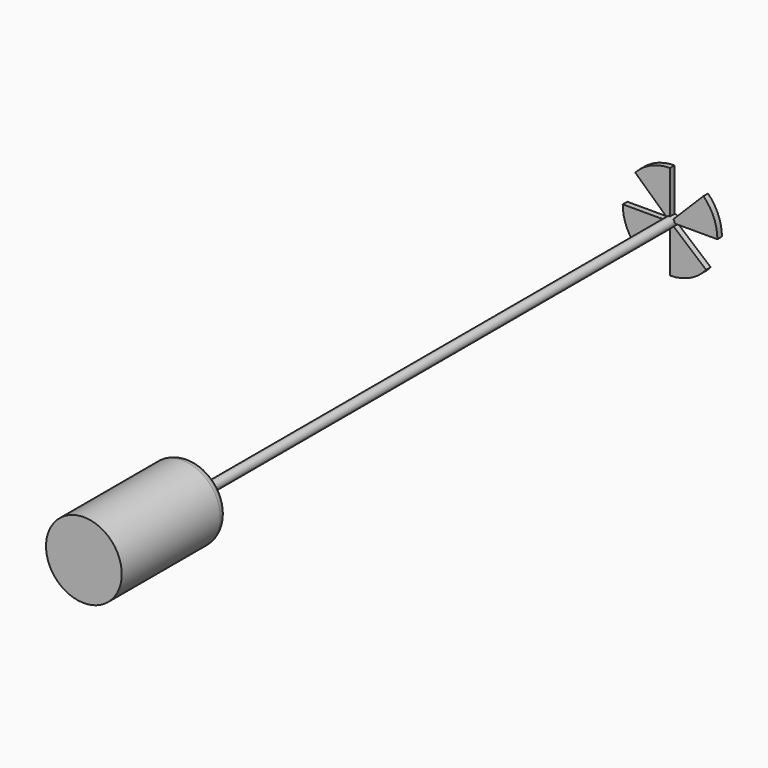
from build123d import *

# Parameters (mm, degrees)
F0_R     = 20
F1_DEPTH = 70
F2_R     = 2.5
F3_DEPTH = 320
F5_DEPTH = 3
F6_R     = 5


with BuildPart() as f1:
    # F0 (on Front) → F1 (new body)
    with BuildSketch(Plane.XZ):
        Circle(F0_R)
    extrude(amount=F1_DEPTH)

    # F2 (on face) → F3 (join)
    with BuildSketch(Plane(origin=(0, 0, 0), x_dir=(-1, 0, 0), z_dir=(0, 1, 0))):
        Circle(F2_R)
    extrude(amount=F3_DEPTH)

    # F4 (on face) → F5 (join)
    with BuildSketch(Plane(origin=(0, 320, 0), x_dir=(-1, 0, 0), z_dir=(0, 1, 0))):
        with BuildLine():
            Line((1.8400168651, 1.6924355043), (18.4001686511, 16.9243550427))
            ThreePointArc((18.4001686511, 16.9243550427), (10.0471668626, 22.8922353219), (0, 25))
            Line((0, 25), (0, 2.5))
            ThreePointArc((0, 2.5), (1.0047166863, 2.2892235322), (1.8400168651, 1.6924355043))
        make_face()
        with BuildLine():
            ThreePointArc((18.1144622727, -17.2298072122), (23.2148826921, -9.2773499229), (25, 0))
            Line((25, 0), (2.5, 0))
            ThreePointArc((2.5, 0), (2.3214882692, -0.9277349923), (1.8114462273, -1.7229807212))
            Line((1.8114462273, -1.7229807212), (18.1144622727, -17.2298072122))
        make_face()
        with BuildLine():
            ThreePointArc((-19.0723992016, -16.163031544), (-10.5100954182, -22.6834277458), (0, -25))
            Line((0, -25), (0, -2.5))
            ThreePointArc((0, -2.5), (-1.0510095418, -2.2683427746), (-1.9072399202, -1.6163031544))
            Line((-1.9072399202, -1.6163031544), (-19.0723992016, -16.163031544))
        make_face()
        with BuildLine():
            Line((-1.765668367, 1.7698630505), (-17.6566836704, 17.6986305053))
            ThreePointArc((-17.6566836704, 17.6986305053), (-23.0913088819, 9.5807856734), (-25, 0))
            Line((-25, 0), (-2.5, 0))
            ThreePointArc((-2.5, 0), (-2.3091308882, 0.9580785673), (-1.765668367, 1.7698630505))
        make_face()
    extrude(amount=-F5_DEPTH)

    # F6
    f6_edges = [f1.edges().sort_by_distance(p)[0] for p in [
        (-20, 0, 0),
    ]]
    fillet(f6_edges, radius=F6_R)


solid = f1.part
